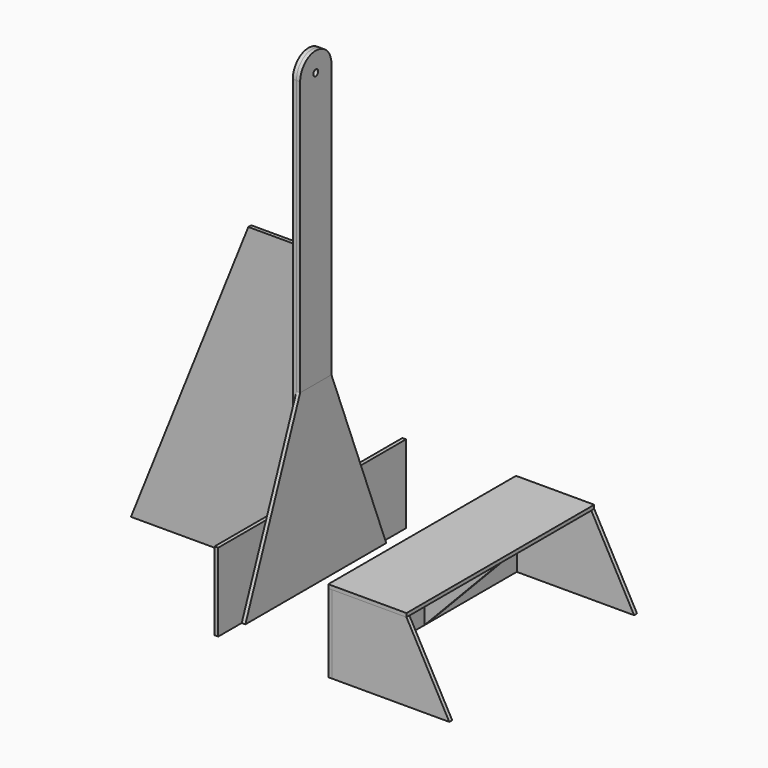
from build123d import *

# Parameters (mm, degrees)
F1_DEPTH  = 19.05
F2_W      = 1219.2
F2_H      = 406.4
F3_DEPTH  = 19.05
F7_DEPTH  = 19.05
F8_W      = 406.4
F8_H      = 1219.2
F9_DEPTH  = 19.05
F11_DEPTH = 19.05
F14_DEPTH = 9.525
F16_DEPTH = 9.525
F18_DEPTH = 19.05
F19_R     = 15.875
F20_DEPTH = 1219.201


with BuildPart() as f1:
    # F0 (on Right) → F1 (new body)
    with BuildSketch(Plane.YZ):
        with BuildLine():
            Line((101.6, 406.4), (101.6, 2336.8))
            ThreePointArc((101.6, 2336.8), (0, 2438.4), (-101.6, 2336.8))
            Line((-101.6, 2336.8), (-101.6, 406.4))
            Line((-101.6, 406.4), (101.6, 406.4))
        make_face()
    extrude(amount=F1_DEPTH)


with BuildPart() as f3:
    # F2 (on Right) → F3 (new body, through all)
    with BuildSketch(Plane.YZ):
        with Locations((0, 203.2)):
            Rectangle(F2_W, F2_H)
    extrude(amount=F3_DEPTH)


with BuildPart() as f5_1:
    # F5: instance of F3
    add(f3.part.mirror(Plane.YZ.offset(304.8)))


with BuildPart() as f7:
    # F6 (on face) → F7 (new body)
    with BuildSketch(Plane.YZ.offset(19.05)):
        Polygon((101.6, 914.4), (-101.6, 914.4), (-457.2, 0), (457.2, 0), align=None)
    extrude(amount=F7_DEPTH)


with BuildPart() as f9:
    # F8 (on face) → F9 (new body)
    with BuildSketch(Plane.XY.offset(406.4)):
        with Locations((793.7499999999, 0)):
            Rectangle(F8_W, F8_H)
    extrude(amount=F9_DEPTH)


with BuildPart() as f11:
    # F10 (on face) → F11 (new body)
    with BuildSketch(Plane.XZ.offset(609.6)):
        Polygon((996.9499999999, 406.4), (609.6, 406.4), (609.6, 0), (1219.2, 0), align=None)
    extrude(amount=-F11_DEPTH)


with BuildPart() as f12_1:
    # F12: instance of F11
    add(f11.part.mirror(Plane.XZ))


with BuildPart() as f14:
    # F13 (on Front) → F14 (new body, symmetric)
    with BuildSketch(Plane.XZ):
        Polygon((996.9499999999, 406.4), (609.6, 406.4), (609.6, 0), align=None)
    extrude(amount=F14_DEPTH, both=True)


with BuildPart() as f16:
    # F15 (on Front) → F16 (new body, symmetric)
    with BuildSketch(Plane.XZ):
        Polygon((0, 406.4), (0, 1524), (-304.8, 1524), (-914.4, 0), (0, 0), align=None)
    extrude(amount=F16_DEPTH, both=True)


with BuildPart() as f18:
    # F17 (on face) → F18 (new body, through all)
    with BuildSketch(Plane.YZ.offset(19.05)):
        with BuildLine():
            Line((101.6, 914.4), (101.6, 2336.8))
            ThreePointArc((101.6, 2336.8), (0, 2438.4), (-101.6, 2336.8))
            Line((-101.6, 2336.8), (-101.6, 914.4))
            Line((-101.6, 914.4), (101.6, 914.4))
        make_face()
    extrude(amount=F18_DEPTH)


with BuildPart() as f20_tool:
    # F19 (on face) → F20 (new body, through all)
    with BuildSketch(Plane.YZ):
        with Locations((0, 2336.8)):
            Circle(F19_R)
    extrude(amount=F20_DEPTH)


with BuildPart() as f1_1:
    add(f1.part)

    # F20: cut by f20_tool
    add(f20_tool.part, mode=Mode.SUBTRACT)


with BuildPart() as f18_1:
    add(f18.part)

    # F20: cut by f20_tool
    add(f20_tool.part, mode=Mode.SUBTRACT)


solid = Compound([f3.part, f5_1.part, f7.part, f9.part, f11.part, f12_1.part, f14.part, f16.part, f1_1.part, f18_1.part])
